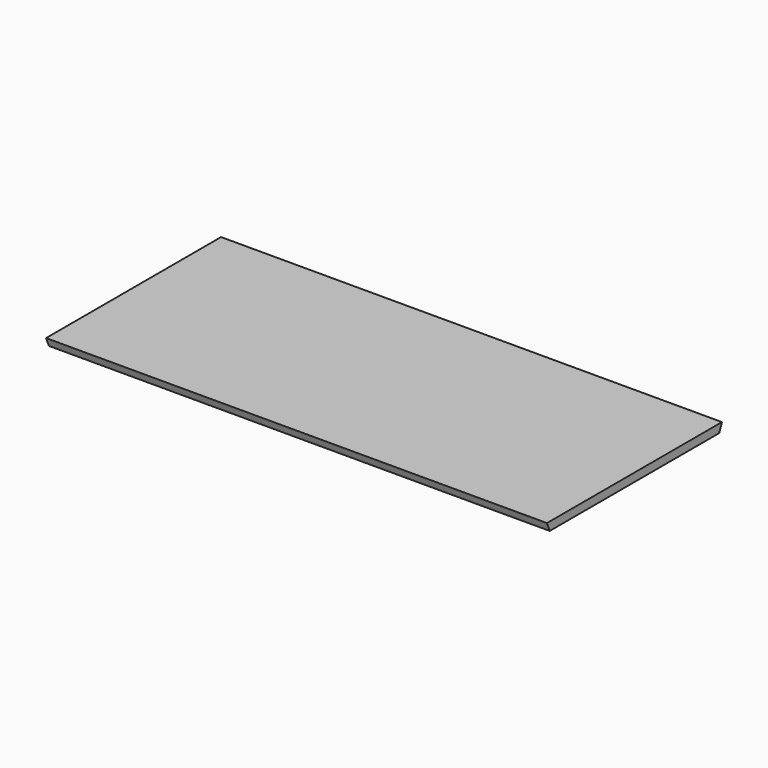
from build123d import *

# Parameters (mm, degrees)
F0_W     = 762
F0_H     = 322.2244
F1_DEPTH = 12.7
F3_DEPTH = 762


with BuildPart() as f1:
    # F0 (on Top) → F1 (new body)
    with BuildSketch(Plane.XY):
        with Locations((381, 161.1122)):
            Rectangle(F0_W, F0_H)
    extrude(amount=F1_DEPTH)

    # F2 (on face) → F3 (join, through all)
    with BuildSketch(Plane.YZ.offset(762)):
        Polygon((-5.2605122421, 12.7), (0, 0), (0, 12.7), align=None)
        Polygon((322.2244, 12.7), (322.2244, 0), (327.4849122421, 12.7), align=None)
    extrude(amount=-F3_DEPTH)


solid = f1.part
